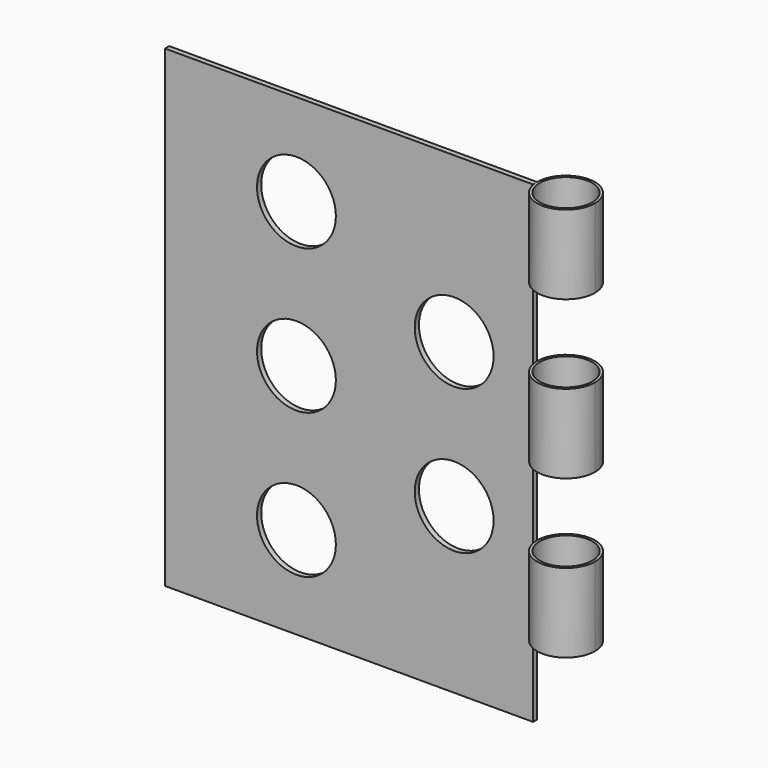
from build123d import *

# Parameters (mm, degrees)
F0_W     = 17.78
F0_H     = 22.86
F0_R     = 1.905
F1_DEPTH = 0.254
F2_R     = 1.397
F3_DEPTH = 3.81
F5_R     = 1.397
F6_DEPTH = 3.81
F8_R     = 1.397
F9_DEPTH = 3.81
F10_D    = 2.54


with BuildPart() as f1:
    # F0 (on Front) → F1 (new body)
    with BuildSketch(Plane.XZ):
        with Locations((-0.045063, -11.43)):
            Rectangle(F0_W, F0_H)
        with Locations((-2.585063, -18.415)):
            Circle(F0_R, mode=Mode.SUBTRACT)
        with Locations((5.034937, -14.9225)):
            Circle(F0_R, mode=Mode.SUBTRACT)
        with Locations((-2.585063, -11.43)):
            Circle(F0_R, mode=Mode.SUBTRACT)
        with Locations((-2.585063, -4.445)):
            Circle(F0_R, mode=Mode.SUBTRACT)
        with Locations((5.034937, -7.9375)):
            Circle(F0_R, mode=Mode.SUBTRACT)
    extrude(amount=F1_DEPTH)

    # F2 (on Top) → F3 (join)
    with BuildSketch(Plane.XY):
        with Locations((10.236152, 0)):
            Circle(F2_R)
    extrude(amount=-F3_DEPTH)

    # F5 (on offset) → F6 (join)
    with BuildSketch(Plane.XY.offset(-7.62)):
        with Locations((10.236152, 0)):
            Circle(F5_R)
    extrude(amount=-F6_DEPTH)

    # F8 (on offset) → F9 (join)
    with BuildSketch(Plane.XY.offset(-15.24)):
        with Locations((10.236152, 0)):
            Circle(F8_R)
    extrude(amount=-F9_DEPTH)

    # F10 (through all)
    with Locations(Plane.XY):
        with Locations((10.236152, 0)):
            Hole(F10_D / 2)


solid = f1.part
